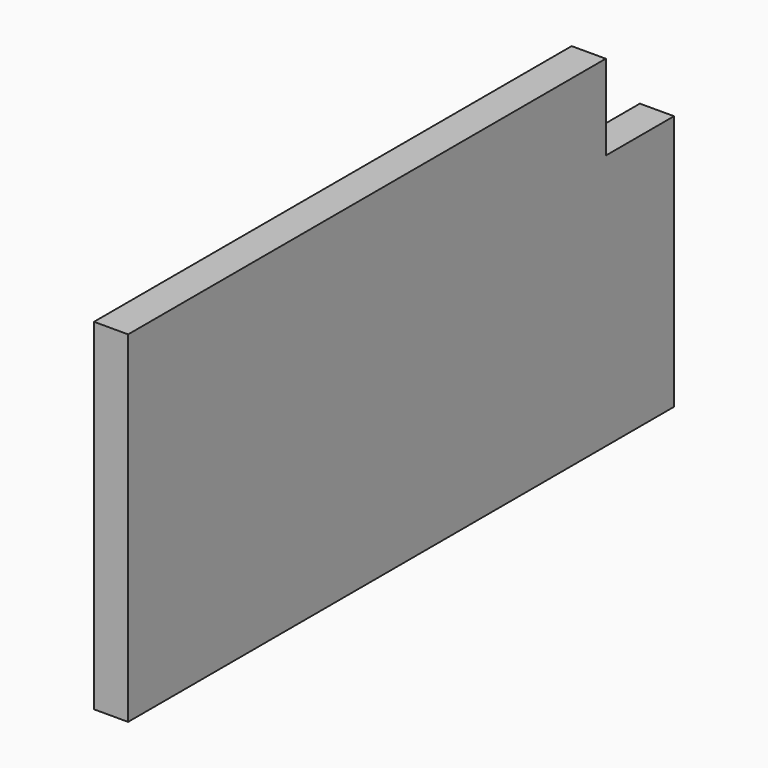
from build123d import *

# Parameters (mm, degrees)
BOX005_W     = 2
BOX005_H     = 5
BOX005_DEPTH = 5
BOX004_W     = 2
BOX004_H     = 40
BOX004_DEPTH = 20


with BuildPart() as obj1:
    # Box005 → Box005 (new body)
    with BuildSketch(Plane(origin=(63, 37, 17), x_dir=(1, 0, 0), z_dir=(0, 0, 1))):
        with Locations((1, 2.5)):
            Rectangle(BOX005_W, BOX005_H)
    extrude(amount=BOX005_DEPTH)


with BuildPart() as cut004:
    # Box004 → Box004 (new body)
    with BuildSketch(Plane(origin=(63, 2, 2), x_dir=(1, 0, 0), z_dir=(0, 0, 1))):
        with Locations((1, 20)):
            Rectangle(BOX004_W, BOX004_H)
    extrude(amount=BOX004_DEPTH)

    # Cut004: cut obj1
    add(obj1.part, mode=Mode.SUBTRACT)


solid = cut004.part
